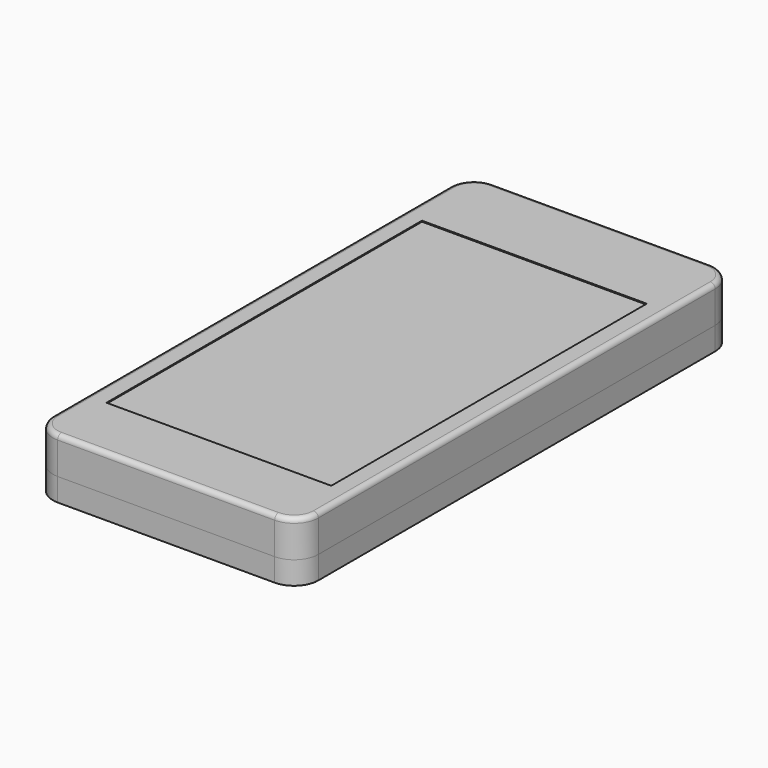
from build123d import *

# Parameters (mm, degrees)
F1_DEPTH = 9.6774
F2_W     = 58.928
F2_H     = 103.378
F3_DEPTH = 0.254
F5_DEPTH = 6
F6_R     = 1.27
F7_W     = 51.816
F7_H     = 124.968
F8_DEPTH = 5


with BuildPart() as f1:
    # F0 (on Top) → F1 (new body)
    with BuildSketch(Plane.XY):
        with BuildLine():
            ThreePointArc((34.798, 65.024), (32.938128, 69.514128), (28.448, 71.374))
            Line((28.448, 71.374), (-28.448, 71.374))
            ThreePointArc((-28.448, 71.374), (-32.938128, 69.514128), (-34.798, 65.024))
            Line((-34.798, 65.024), (-34.798, -65.024))
            ThreePointArc((-34.798, -65.024), (-32.938128, -69.514128), (-28.448, -71.374))
            Line((-28.448, -71.374), (28.448, -71.374))
            ThreePointArc((28.448, -71.374), (32.938128, -69.514128), (34.798, -65.024))
            Line((34.798, -65.024), (34.798, 65.024))
        make_face()
    extrude(amount=F1_DEPTH)

    # F2 (on face) → F3 (cut)
    with BuildSketch(Plane.XY.offset(9.6774)):
        with Locations((0, -2.413)):
            Rectangle(F2_W, F2_H)
    extrude(amount=-F3_DEPTH, mode=Mode.SUBTRACT)

    # F6
    f6_edges = [f1.edges().sort_by_distance(p)[0] for p in [
        (-34.798, 0, 9.6774),
    ]]
    fillet(f6_edges, radius=F6_R)


with BuildPart() as f5:
    # F4 (on face) → F5 (new body)
    with BuildSketch(Plane(origin=(0, 0, 0), x_dir=(1, 0, 0), z_dir=(0, 0, -1))):
        with BuildLine():
            ThreePointArc((34.798, 65.024), (32.938128, 69.514128), (28.448, 71.374))
            Line((28.448, 71.374), (-28.448, 71.374))
            ThreePointArc((-28.448, 71.374), (-32.938128, 69.514128), (-34.798, 65.024))
            Line((-34.798, 65.024), (-34.798, -65.024))
            ThreePointArc((-34.798, -65.024), (-32.938128, -69.514128), (-28.448, -71.374))
            Line((-28.448, -71.374), (28.448, -71.374))
            ThreePointArc((28.448, -71.374), (32.938128, -69.514128), (34.798, -65.024))
            Line((34.798, -65.024), (34.798, 65.024))
        make_face()
    extrude(amount=F5_DEPTH)

    # F7 (on face) → F8 (cut)
    with BuildSketch(Plane(origin=(0, 0, -6), x_dir=(1, 0, 0), z_dir=(0, 0, -1))):
        Rectangle(F7_W, F7_H)
    extrude(amount=-F8_DEPTH, mode=Mode.SUBTRACT)


solid = Compound([f1.part, f5.part])
